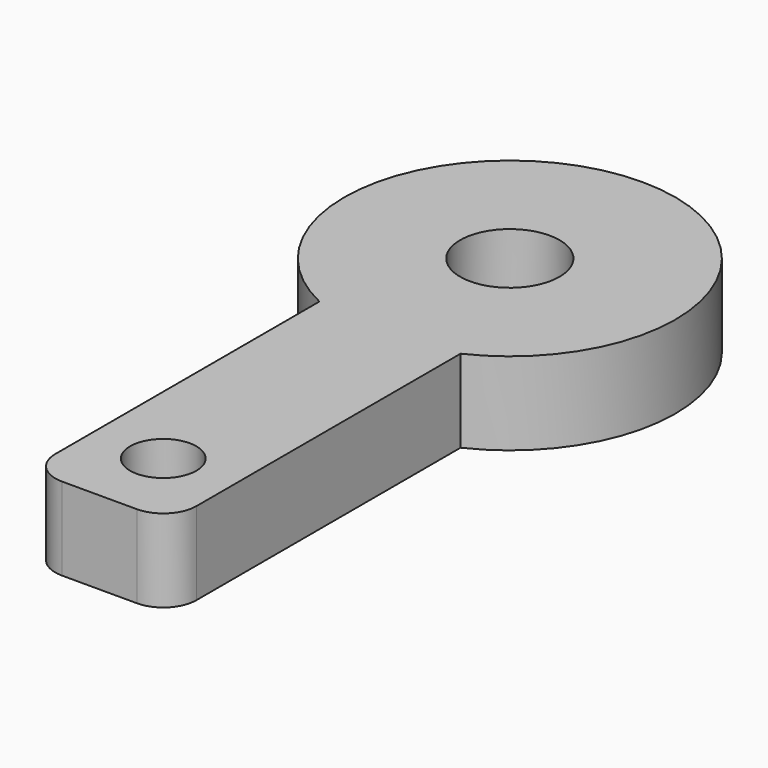
from build123d import *

# Parameters (mm, degrees)
F0_R     = 10
F0_R_2   = 3
F1_DEPTH = 5
F3_DEPTH = 5
F4_R     = 2
F5_R     = 2
F6_DEPTH = 5.001


with BuildPart() as f1:
    # F0 (on Top) → F1 (new body)
    with BuildSketch(Plane.XY):
        Circle(F0_R)
        Circle(F0_R_2, mode=Mode.SUBTRACT)
    extrude(amount=F1_DEPTH)

    # F2 (on face) → F3 (join)
    with BuildSketch(Plane.XY.offset(5)):
        with BuildLine():
            Line((4.2607685338, -30.9823937714), (4.2607685338, -9.0468697073))
            ThreePointArc((4.2607685338, -9.0468697073), (0, -10), (-4.2607685338, -9.0468697073))
            Line((-4.2607685338, -9.0468697073), (-4.2607685338, -30.9823937714))
            Line((-4.2607685338, -30.9823937714), (4.2607685338, -30.9823937714))
        make_face()
    extrude(amount=-F3_DEPTH)

    # F4
    f4_edges = [f1.edges().sort_by_distance(p)[0] for p in [
        (-4.260769, -30.982394, 2.5),
        (4.260769, -30.982394, 2.5),
    ]]
    fillet(f4_edges, radius=F4_R)

    # F5 (on face) → F6 (cut, through all)
    with BuildSketch(Plane.XY.offset(5)):
        with Locations((0, -26.1633973569)):
            Circle(F5_R)
    extrude(amount=-F6_DEPTH, mode=Mode.SUBTRACT)


solid = f1.part
